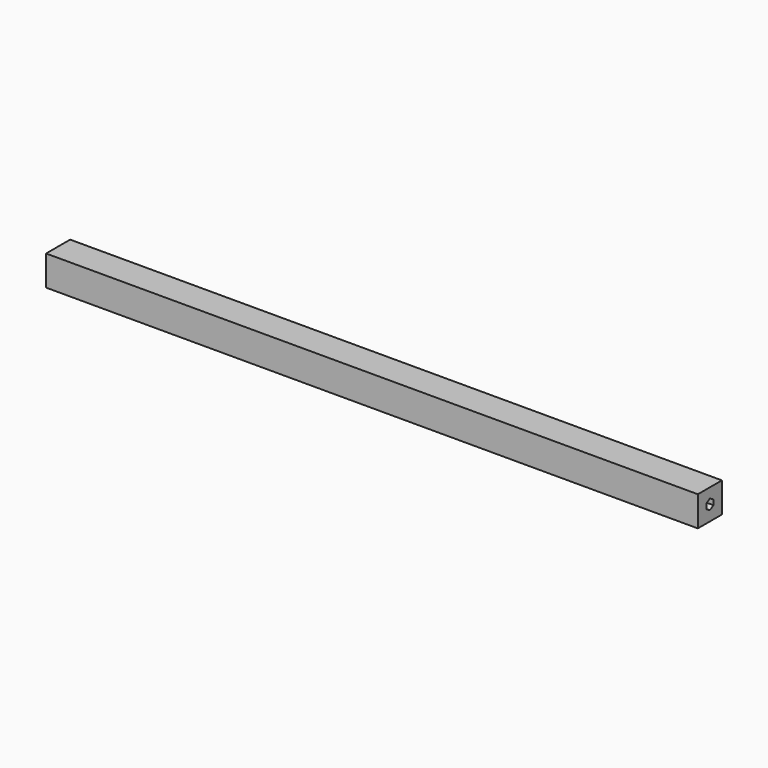
from build123d import *

# Parameters (mm, degrees)
F0_W     = 30.48
F0_H     = 30.48
F1_DEPTH = 330.2
F3_DEPTH = 660.401


with BuildPart() as f1:
    # F0 (on Right) → F1 (new body, symmetric)
    with BuildSketch(Plane.YZ):
        Rectangle(F0_W, F0_H)
    extrude(amount=F1_DEPTH, both=True)

    # F2 (on face) → F3 (cut, through all)
    with BuildSketch(Plane.YZ.offset(330.2)):
        Polygon((4.52755, -2.613982), (4.52755, 2.613982), (0, 5.227964), (-4.52755, 2.613982), (-4.52755, -2.613982), (0, -5.227964), align=None)
    extrude(amount=-F3_DEPTH, mode=Mode.SUBTRACT)


solid = f1.part
